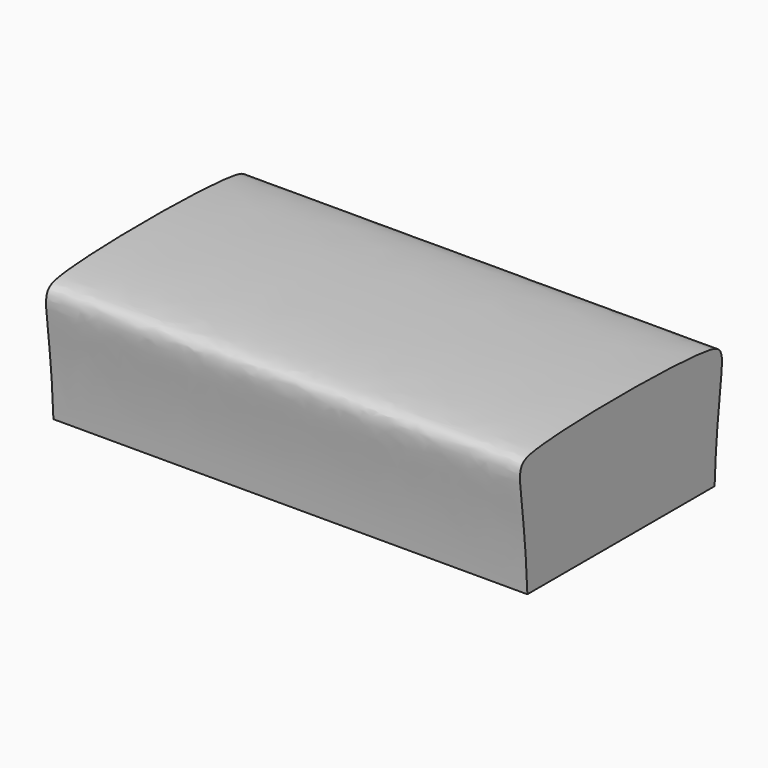
from build123d import *

# Parameters (mm, degrees)
F1_DEPTH = 25.4


with BuildPart() as f1:
    # F0 (on Right) → F1 (new body)
    with BuildSketch(Plane.YZ):
        with BuildLine():
            add(Edge.make_bspline(
                [(-6.2707385997, 0), (-6.5166237764, 5.8932546526), (-8.7587536266, 6.9230984735), (8.7587536266, 6.9230984735), (6.5166237764, 5.8932546526), (6.2707385997, 0)],
                knots=[0, 0, 0, 0, 0.3012002521, 0.6987997479, 1, 1, 1, 1], degree=3))
            Line((-6.2707385997, 0), (6.2707385997, 0))
        make_face()
    extrude(amount=F1_DEPTH)


solid = f1.part
